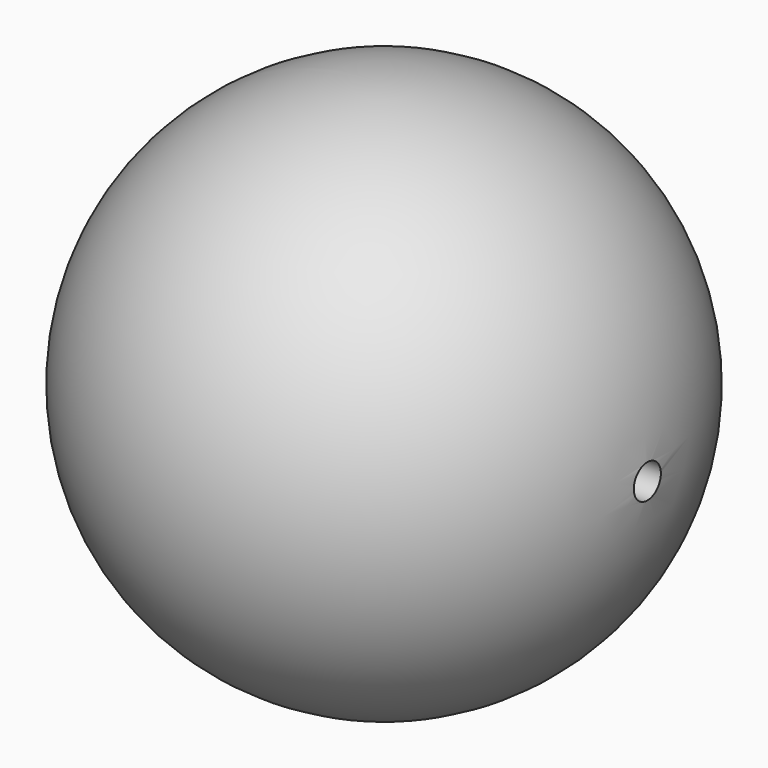
from build123d import *

# Parameters (mm, degrees)
F2_R     = 15.875
F3_DEPTH = 279.4


with BuildPart() as f1:
    # F0 (on Front) → F1 (revolve)
    with BuildSketch(Plane.XZ):
        with BuildLine():
            Line((0, 0), (0, 247.65))
            ThreePointArc((0, 247.65), (-247.65, 0), (0, -247.65))
            Line((0, -247.65), (0, 0))
        make_face()
    revolve(axis=Axis((0, 0, 0), (0, 0, 1)))

    # F2 (on Right) → F3 (cut, symmetric)
    with BuildSketch(Plane.YZ):
        Circle(F2_R)
    extrude(amount=F3_DEPTH, both=True, mode=Mode.SUBTRACT)


solid = f1.part
